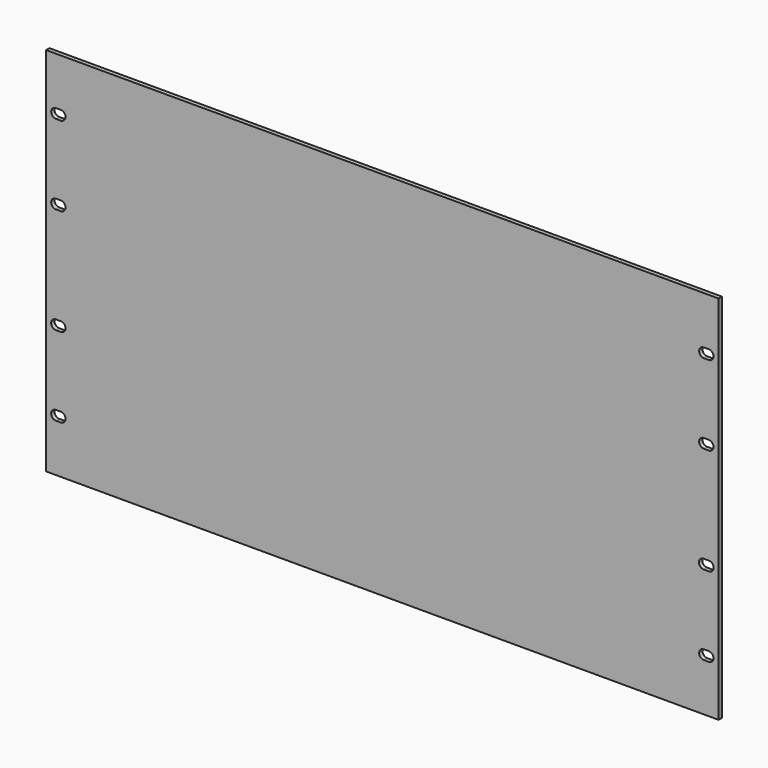
from build123d import *

# Parameters (mm, degrees)
F0_W      = 482.6
F0_H      = 266.2
F1_DEPTH  = 3
F2_W      = 3.5
F2_H      = 6.8
F3_DEPTH  = 3
F4_W      = 3.5
F4_H      = 6.8
F5_DEPTH  = 3
F6_W      = 3.5
F6_H      = 6.8
F7_DEPTH  = 3
F8_W      = 3.5
F8_H      = 6.8
F9_DEPTH  = 3
F12_W     = 3.8
F12_H     = 6.8
F12_W_2   = 3.5
F10_W     = 3.5
F10_H     = 6.8
F11_W     = 3.5
F11_H     = 6.8
F13_DEPTH = 3


with BuildPart() as f1:
    # F0 (on Front) → F1 (new body)
    with BuildSketch(Plane.XZ):
        Rectangle(F0_W, F0_H)
    extrude(amount=-F1_DEPTH)

    # F2 (on face) → F3 (cut)
    with BuildSketch(Plane(origin=(0, 3, 0), x_dir=(-1, 0, 0), z_dir=(0, 1, 0))):
        with Locations((232.5, 95.35)):
            Rectangle(F2_W, F2_H)
        with BuildLine():
            Line((234.25, 98.75), (234.25, 91.95))
            ThreePointArc((234.25, 91.95), (237.65, 95.35), (234.25, 98.75))
        make_face()
        with BuildLine():
            ThreePointArc((230.75, 98.75), (227.35, 95.35), (230.75, 91.95))
            Line((230.75, 91.95), (230.75, 98.75))
        make_face()
    extrude(amount=-F3_DEPTH, mode=Mode.SUBTRACT)

    # F4 (on face) → F5 (cut)
    with BuildSketch(Plane(origin=(0, 3, 0), x_dir=(-1, 0, 0), z_dir=(0, 1, 0))):
        with Locations((232.5, 38.15)):
            Rectangle(F4_W, F4_H)
        with BuildLine():
            Line((234.25, 41.55), (234.25, 34.75))
            ThreePointArc((234.25, 34.75), (237.65, 38.15), (234.25, 41.55))
        make_face()
        with BuildLine():
            ThreePointArc((230.75, 41.55), (227.35, 38.15), (230.75, 34.75))
            Line((230.75, 34.75), (230.75, 41.55))
        make_face()
    extrude(amount=-F5_DEPTH, mode=Mode.SUBTRACT)

    # F6 (on face) → F7 (cut)
    with BuildSketch(Plane(origin=(0, 3, 0), x_dir=(-1, 0, 0), z_dir=(0, 1, 0))):
        with Locations((232.5, -38.15)):
            Rectangle(F6_W, F6_H)
        with BuildLine():
            Line((234.25, -34.75), (234.25, -41.55))
            ThreePointArc((234.25, -41.55), (237.65, -38.15), (234.25, -34.75))
        make_face()
        with BuildLine():
            ThreePointArc((230.75, -34.75), (227.35, -38.15), (230.75, -41.55))
            Line((230.75, -41.55), (230.75, -34.75))
        make_face()
    extrude(amount=-F7_DEPTH, mode=Mode.SUBTRACT)

    # F8 (on face) → F9 (cut)
    with BuildSketch(Plane(origin=(0, 3, 0), x_dir=(-1, 0, 0), z_dir=(0, 1, 0))):
        with Locations((232.5, -95.35)):
            Rectangle(F8_W, F8_H)
        with BuildLine():
            ThreePointArc((234.25, -98.75), (237.65, -95.35), (234.25, -91.95))
            Line((234.25, -91.95), (234.25, -98.75))
        make_face()
        with BuildLine():
            Line((230.75, -98.75), (230.75, -91.95))
            ThreePointArc((230.75, -91.95), (227.35, -95.35), (230.75, -98.75))
        make_face()
    extrude(amount=-F9_DEPTH, mode=Mode.SUBTRACT)

    # F12 (on face) + F10 (on face) + F11 (on face) → F13 (cut)
    with BuildSketch(Plane(origin=(0, 3, 0), x_dir=(-1, 0, 0), z_dir=(0, 1, 0))):
        with Locations((-232.5, -38.15)):
            Rectangle(F12_W, F12_H)
        with BuildLine():
            Line((-230.6, -34.75), (-230.6, -41.55))
            ThreePointArc((-230.6, -41.55), (-227.2, -38.15), (-230.6, -34.75))
        make_face()
        with BuildLine():
            ThreePointArc((-234.4, -34.75), (-237.8, -38.15), (-234.4, -41.55))
            Line((-234.4, -41.55), (-234.4, -34.75))
        make_face()
        with Locations((-232.5, -95.35)):
            Rectangle(F12_W_2, F12_H)
        with BuildLine():
            Line((-230.75, -91.95), (-230.75, -98.75))
            ThreePointArc((-230.75, -98.75), (-227.35, -95.35), (-230.75, -91.95))
        make_face()
        with BuildLine():
            ThreePointArc((-234.25, -91.95), (-237.65, -95.35), (-234.25, -98.75))
            Line((-234.25, -98.75), (-234.25, -91.95))
        make_face()
    with BuildSketch(Plane(origin=(0, 3, 0), x_dir=(-1, 0, 0), z_dir=(0, 1, 0))):
        with Locations((-232.5, 95.35)):
            Rectangle(F10_W, F10_H)
        with BuildLine():
            Line((-230.75, 98.75), (-230.75, 91.95))
            ThreePointArc((-230.75, 91.95), (-227.35, 95.35), (-230.75, 98.75))
        make_face()
        with BuildLine():
            ThreePointArc((-234.25, 98.75), (-237.65, 95.35), (-234.25, 91.95))
            Line((-234.25, 91.95), (-234.25, 98.75))
        make_face()
    with BuildSketch(Plane(origin=(0, 3, 0), x_dir=(-1, 0, 0), z_dir=(0, 1, 0))):
        with Locations((-232.5, 38.15)):
            Rectangle(F11_W, F11_H)
        with BuildLine():
            Line((-234.25, 34.75), (-234.25, 41.55))
            ThreePointArc((-234.25, 41.55), (-237.65, 38.15), (-234.25, 34.75))
        make_face()
        with BuildLine():
            ThreePointArc((-230.75, 34.75), (-227.35, 38.15), (-230.75, 41.55))
            Line((-230.75, 41.55), (-230.75, 34.75))
        make_face()
    extrude(amount=-F13_DEPTH, mode=Mode.SUBTRACT)


solid = f1.part
